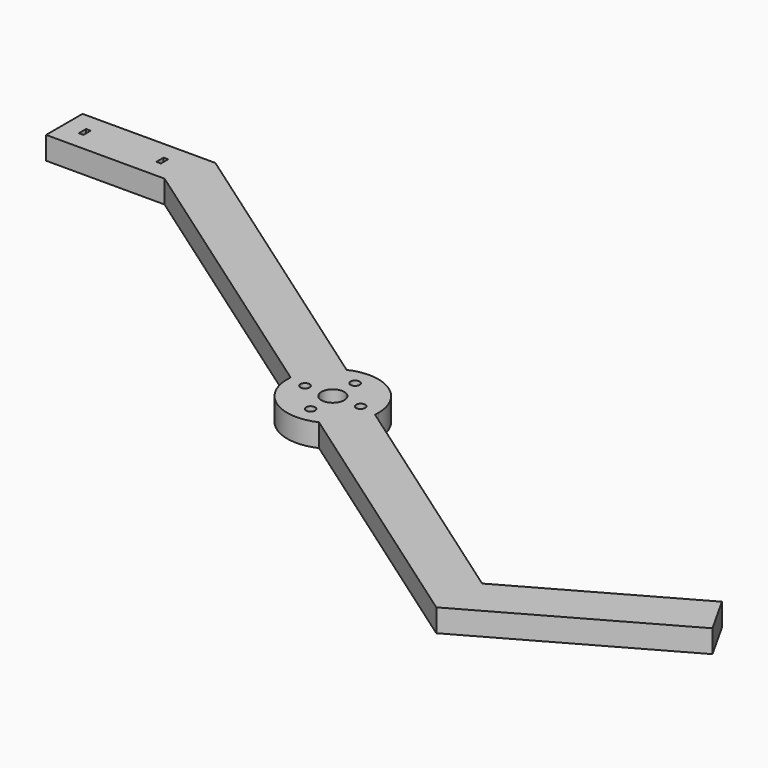
from build123d import *

# Parameters (mm, degrees)
F0_W     = 1
F0_H     = 2
F0_R     = 1
F0_R_2   = 2.5
F1_DEPTH = 5


with BuildPart() as f1:
    # F0 (on Top) → F1 (new body)
    with BuildSketch(Plane.XY):
        with BuildLine():
            Line((-69.575461, 9.064315), (-116.475639, 41.92464))
            Line((-116.475639, 41.92464), (-135.137557, 55))
            Line((-135.137557, 55), (-164.292154, 55))
            Line((-164.292154, 55), (-164.292154, 45))
            Line((-164.292154, 45), (-138.292154, 45))
            Line((-138.292154, 45), (-75.313624, 0.874474))
            ThreePointArc((-75.313624, 0.874474), (-73.541773, 5.738162), (-69.575461, 9.064315))
        make_face()
        with Locations((-159.792154, 50)):
            Rectangle(F0_W, F0_H, mode=Mode.SUBTRACT)
        with Locations((-142.792154, 50)):
            Rectangle(F0_W, F0_H, mode=Mode.SUBTRACT)
        with BuildLine():
            ThreePointArc((-55.351932, 0), (-59.977702, 8.433128), (-69.575461, 9.064315))
            ThreePointArc((-69.575461, 9.064315), (-73.541773, 5.738162), (-75.313624, 0.874474))
            ThreePointArc((-75.313624, 0.874474), (-71.093993, -8.187108), (-61.137035, -9.068332))
            ThreePointArc((-61.137035, -9.068332), (-57.164824, -5.74206), (-55.390241, -0.874474))
            ThreePointArc((-55.390241, -0.874474), (-55.361514, -0.437656), (-55.351932, 0))
        make_face()
        with Locations((-65.351932, -6.105125)):
            Circle(F0_R, mode=Mode.SUBTRACT)
        with Locations((-71.457057, 0)):
            Circle(F0_R, mode=Mode.SUBTRACT)
        with Locations((-65.351932, 0)):
            Circle(F0_R_2, mode=Mode.SUBTRACT)
        with Locations((-59.246808, 0)):
            Circle(F0_R, mode=Mode.SUBTRACT)
        with Locations((-65.351932, 6.105125)):
            Circle(F0_R, mode=Mode.SUBTRACT)
        with BuildLine():
            Line((-1.903404, -38.349703), (-55.390241, -0.874474))
            ThreePointArc((-55.390241, -0.874474), (-57.164824, -5.74206), (-61.137035, -9.068332))
            Line((-61.137035, -9.068332), (-2.513691, -50.163449))
            Line((-2.513691, -50.163449), (39.306586, -26.662423))
            Line((39.306586, -26.662423), (34.407597, -17.94463))
            Line((34.407597, -17.94463), (-1.903404, -38.349703))
        make_face()
    extrude(amount=F1_DEPTH)


solid = f1.part
